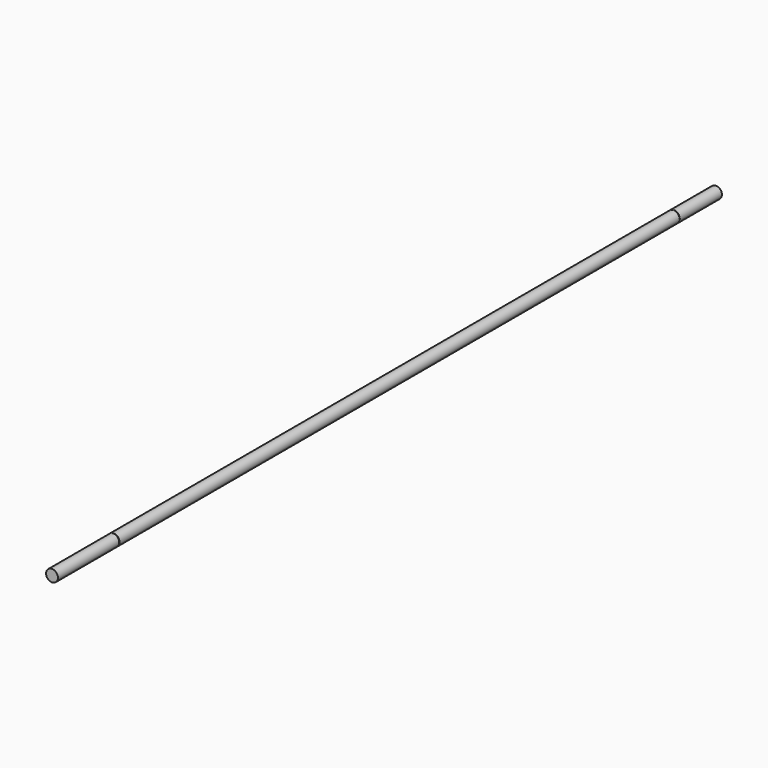
from build123d import *

# Parameters (mm, degrees)
F0_R     = 6.35
F1_DEPTH = 889


with BuildPart() as f1:
    # F0 (on Front) → F1 (new body)
    with BuildSketch(Plane.XZ):
        Circle(F0_R)
    extrude(amount=F1_DEPTH)


with BuildPart() as f3:
    # F3: sweep along a path in F3_path
    with BuildLine(Plane(origin=(6.35, -889, 0), x_dir=(0, 0, -1), z_dir=(0, 1, 0))) as f3_path:
        CenterArc((0, 6.35), 6.35, 0, 360)
    # F2 (on Right) → F3 (sweep)
    with BuildSketch(Plane.YZ):
        Polygon((-806.45, 5.2771689498), (-806.45, 6.5336377473), (-806.8897640791, 6.541823037), (-806.8897640791, 5.2771689498), align=None)
    sweep(path=f3_path.line)


with BuildPart() as f4_1:
    # F4: copy of F3
    add(f3.part.moved(Location((0, 750.062, 0))))


with BuildPart() as f1_1:
    add(f1.part)

    # F5: cut F3, F4_1
    add(f3.part, mode=Mode.SUBTRACT)
    add(f4_1.part, mode=Mode.SUBTRACT)


solid = f1_1.part
